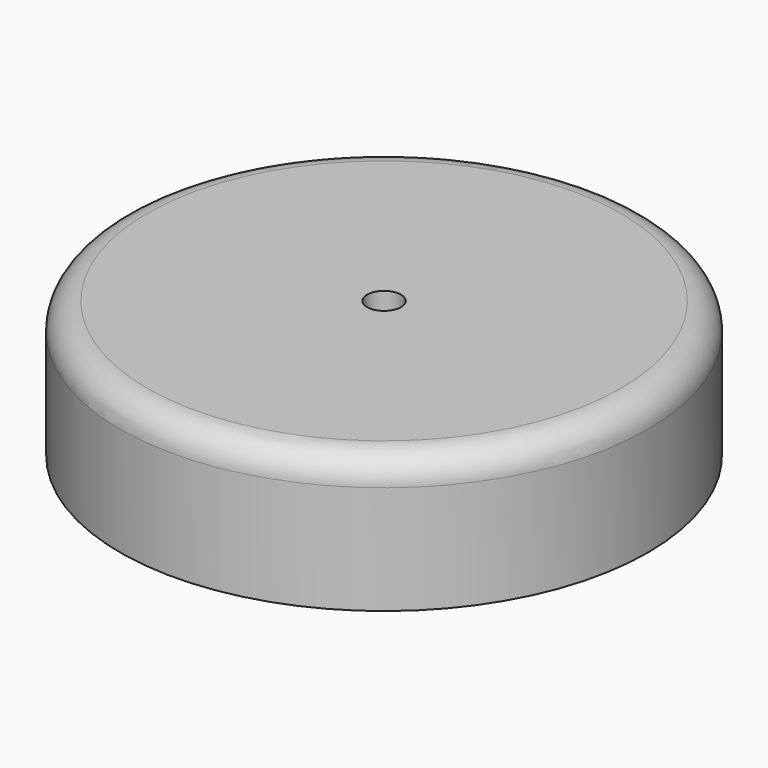
from build123d import *

# Parameters (mm, degrees)
F0_R     = 49.406354
F1_DEPTH = 25.4
F3_D     = 6.35
F4_W     = 34.925
F4_H     = 60.325
F5_DEPTH = 12.7
F6_R     = 5.08
F7_R     = 0.252521


with BuildPart() as f1:
    # F0 (on Top) → F1 (new body)
    with BuildSketch(Plane.XY):
        Circle(F0_R)
    extrude(amount=F1_DEPTH)

    # F3 (through all)
    with Locations(Plane.XY.offset(25.4)):
        with Locations((0, 0)):
            Hole(F3_D / 2)

    # F4 (on face) → F5 (cut)
    with BuildSketch(Plane(origin=(0, 0, 0), x_dir=(1, 0, 0), z_dir=(0, 0, -1))):
        Rectangle(F4_W, F4_H)
    extrude(amount=-F5_DEPTH, mode=Mode.SUBTRACT)

    # F6
    f6_edges = [f1.edges().sort_by_distance(p)[0] for p in [
        (-49.406354, 0, 25.4),
    ]]
    fillet(f6_edges, radius=F6_R)

    # F7
    f7_edges = [f1.edges().sort_by_distance(p)[0] for p in [
        (-17.4625, 30.1625, 6.35),
        (17.4625, 30.1625, 6.35),
        (-17.4625, -30.1625, 6.35),
        (17.4625, -30.1625, 6.35),
    ]]
    fillet(f7_edges, radius=F7_R)


solid = f1.part
